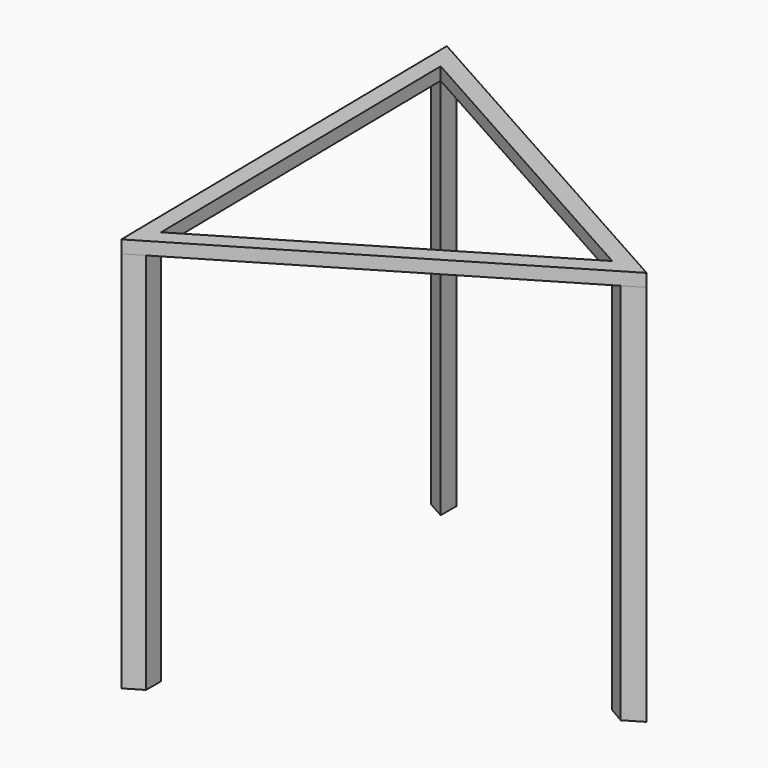
from build123d import *

# Parameters (mm, degrees)
F1_DEPTH = 5.08
F3_DEPTH = 152.4


with BuildPart() as f1:
    # F0 (on Top) → F1 (new body)
    with BuildSketch(Plane.XY):
        Polygon((95.243512, 1.311164), (-48.757257, 81.827719), (-46.486255, -83.138883), align=None)
        Polygon((-41.782549, 70.00239), (81.887859, 0.853349), (-39.832171, -71.673846), align=None, mode=Mode.SUBTRACT)
    extrude(amount=F1_DEPTH)

    # F2 (on face) → F3 (join)
    with BuildSketch(Plane(origin=(0, 0, 0), x_dir=(1, 0, 0), z_dir=(0, 0, -1))):
        Polygon((-41.782549, -77.927882), (-41.782549, -70.00239), (-48.647305, -73.840749), (-48.757257, -81.827719), align=None)
        Polygon((88.245812, 2.858434), (81.887859, -0.853349), (88.749803, -4.942055), (95.243512, -1.311164), align=None)
        Polygon((-46.588666, 75.69972), (-39.832171, 71.673846), (-39.832171, 79.17403), (-46.486255, 83.138883), align=None)
    extrude(amount=F3_DEPTH)


solid = f1.part
